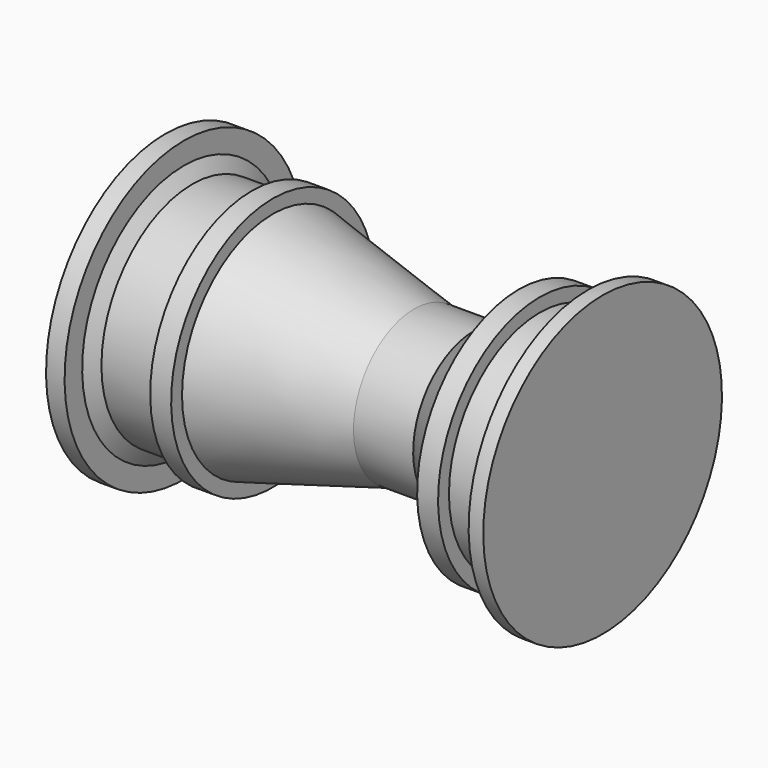
from build123d import *


with BuildPart() as f1:
    # F0 (on Front) → F1 (revolve)
    with BuildSketch(Plane.XZ):
        Polygon((-66.337235, 49.522039), (-72.494164, 49.522039), (-72.494164, 0), (72.657242, 0), (72.657242, 49.522039), (67.792438, 49.522039), (67.792438, 42.223446), (65.328445, 37.705269), (51.80807, 37.705269), (51.80807, 42.223446), (44.858351, 42.223446), (44.858351, 37.705269), (29.916441, 25.193391), (10.109728, 25.193391), (-36.800906, 37.705269), (-36.800906, 42.223446), (-43.750629, 42.223446), (-43.750629, 37.705269), (-63.557342, 37.705269), (-66.337235, 42.223446), align=None)
    revolve(axis=Axis((0.081539, 0, 0), (-1, 0, 0)))


solid = f1.part
